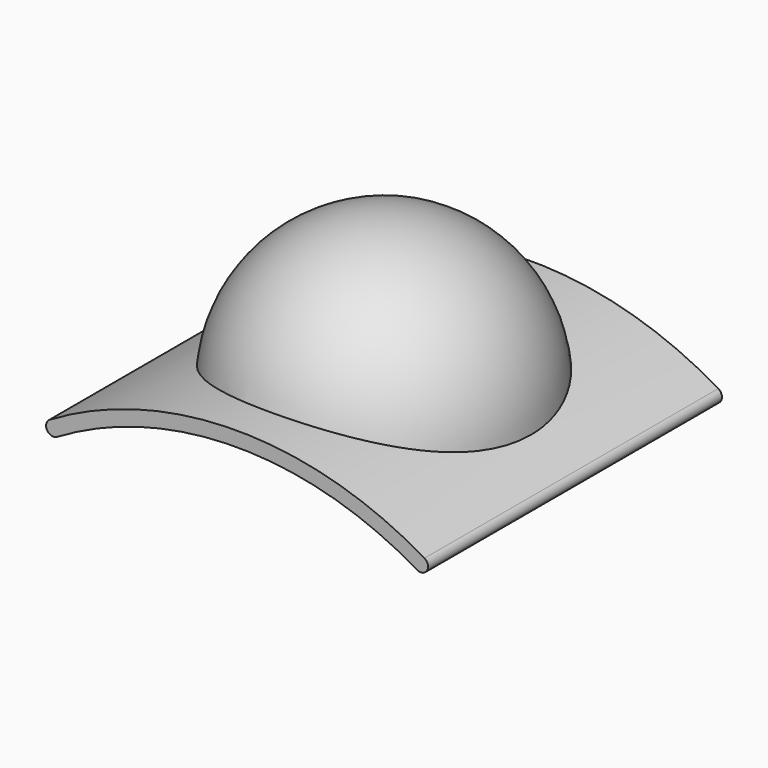
from build123d import *

# Parameters (mm, degrees)
PAD_DEPTH    = 100
SPHERE_ANGLE = 180
POCKET_DEPTH = 100.001
FILLET_R     = 1


with BuildPart() as part:
    # Sketch (on XZ_Plane of Origin) → Pad (new body)
    with BuildSketch(Plane.XZ):
        with BuildLine():
            ThreePointArc((51.020408, 1.720107), (0, 15.71477), (-51.020408, 1.720107))
            ThreePointArc((-51.020408, 1.720107), (-51.720107, -1.020408), (-48.979592, -1.720107))
            ThreePointArc((48.979592, -1.720107), (0, 11.71477), (-48.979592, -1.720107))
            ThreePointArc((48.979592, -1.720107), (51.720107, -1.020408), (51.020408, 1.720107))
        make_face()
    extrude(amount=PAD_DEPTH)

    # Sphere → Sphere (revolve)
    with BuildSketch(Plane(origin=(0, -50, 6.720107), x_dir=(0.699929, 0.714213, 0), z_dir=(0, 0, -1))):
        with BuildLine():
            ThreePointArc((0, -40), (40, 0), (0, 40))
            Line((0, 40), (0, -40))
        make_face()
    revolve(axis=Axis((0, -50, 6.720107), (0.714213, -0.699929, 0)), revolution_arc=SPHERE_ANGLE)

    # Sketch002 (on Face4 of Sphere) → Pocket (cut, through all)
    with BuildSketch(Plane(origin=(0, -100, 6.720107), x_dir=(0, 0, -1), z_dir=(0, -1, 0))):
        with BuildLine():
            Line((8.440213, 48.979592), (8.440213, -48.979592))
            ThreePointArc((8.440213, 48.979592), (-4.994663, 0), (8.440213, -48.979592))
        make_face()
    extrude(amount=-POCKET_DEPTH, mode=Mode.SUBTRACT)

    # Sphere001 → Sphere001 (revolve, cut)
    with BuildSketch(Plane(origin=(0, -50, 6.720107), x_dir=(0.699929, 0.714213, 0), z_dir=(0, 0, -1))):
        with BuildLine():
            ThreePointArc((0, -38), (38, 0), (0, 38))
            Line((0, 38), (0, -38))
        make_face()
    revolve(axis=Axis((0, -50, 6.720107), (0.714213, -0.699929, 0)), mode=Mode.SUBTRACT)

    # Fillet
    fillet_edges = [part.edges().sort_by_distance(p)[0] for p in [
        (-37.896563, -50, 3.918231),
    ]]
    fillet(fillet_edges, radius=FILLET_R)


solid = part.part
